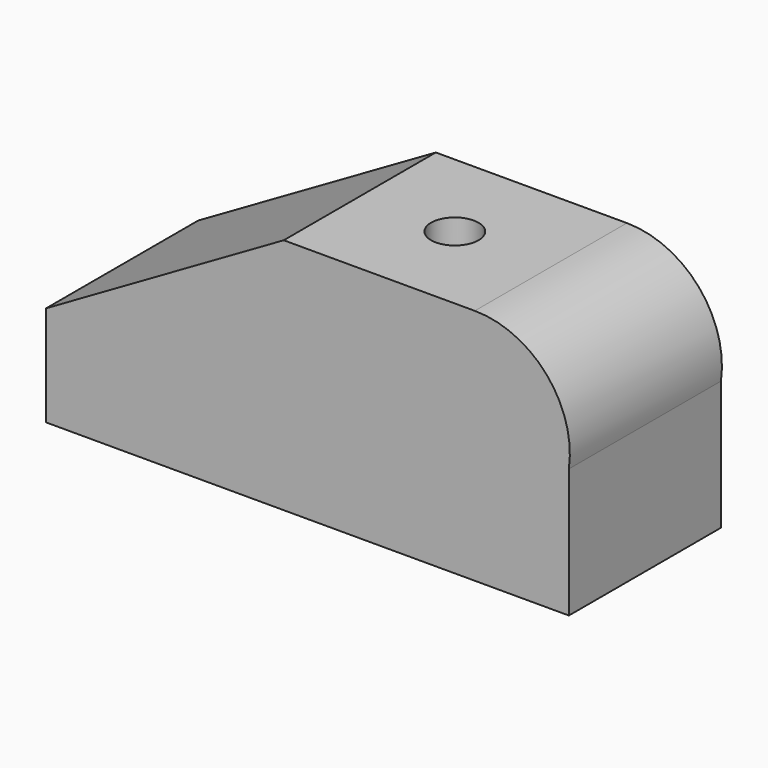
from build123d import *

# Parameters (mm, degrees)
PAD_DEPTH    = 40
SKETCH_R     = 5
POCKET_DEPTH = 50.001


with BuildPart() as part:
    # Sketch001 → Pad (new body)
    with BuildSketch(Plane.XZ):
        with BuildLine():
            Line((0, 0), (110, 0))
            Line((110, 0), (110, 27.159005))
            ThreePointArc((110, 27.159005), (105.316047, 43.099238), (90.20281, 50))
            Line((50, 50), (90.20281, 50))
            Line((0, 21.132487), (50, 50))
            Line((0, 0), (0, 21.132487))
        make_face()
    extrude(amount=-PAD_DEPTH)

    # Sketch (on Face4 of Pad) → Pocket (cut, through all)
    with BuildSketch(Plane(origin=(0, 0, 50), x_dir=(-1, 0, 0), z_dir=(0, 0, 1))):
        with Locations((-69.999992, -20.000006)):
            Circle(SKETCH_R)
    extrude(amount=-POCKET_DEPTH, mode=Mode.SUBTRACT)


solid = part.part
